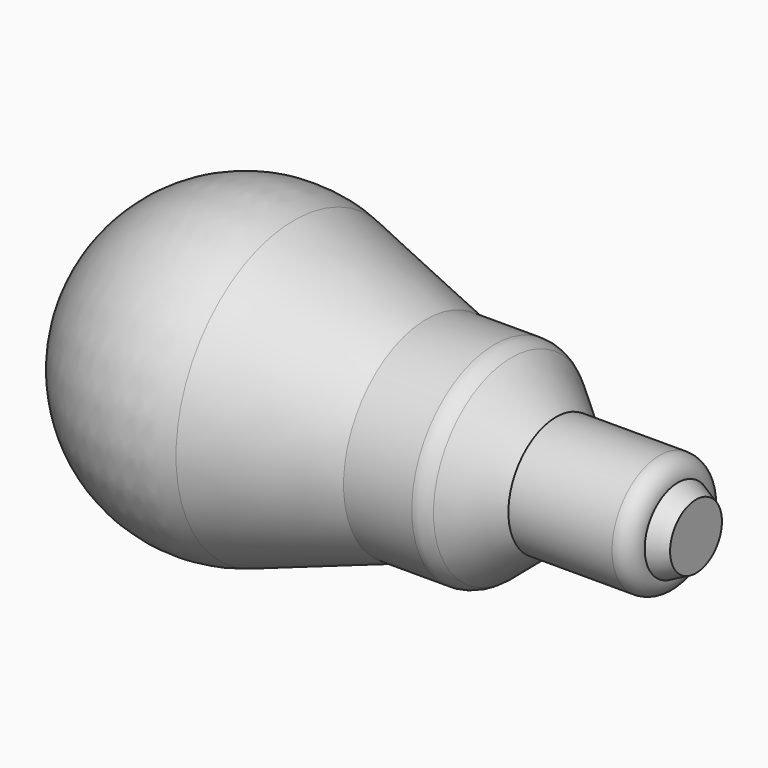
from build123d import *


with BuildPart() as f1:
    # F0 (on Top) → F1 (revolve)
    with BuildSketch(Plane.XY):
        with BuildLine():
            Line((48.162115, 20), (35, 20))
            Line((35, 20), (9.442773, 28.475148))
            ThreePointArc((9.442773, 28.475148), (-17.560137, 24.323684), (-30, 0))
            Line((-30, 0), (87, 0))
            Line((87, 0), (87, 6.25))
            Line((87, 6.25), (83.5, 8))
            ThreePointArc((83.5, 8), (82.474874, 10.474874), (80, 11.5))
            Line((80, 11.5), (60, 11.5))
            Line((60, 11.5), (51.400357, 18.809697))
            ThreePointArc((51.400357, 18.809697), (49.887154, 19.692999), (48.162115, 20))
        make_face()
    revolve(axis=Axis((17.5, 0, 0), (1, 0, 0)))


solid = f1.part
